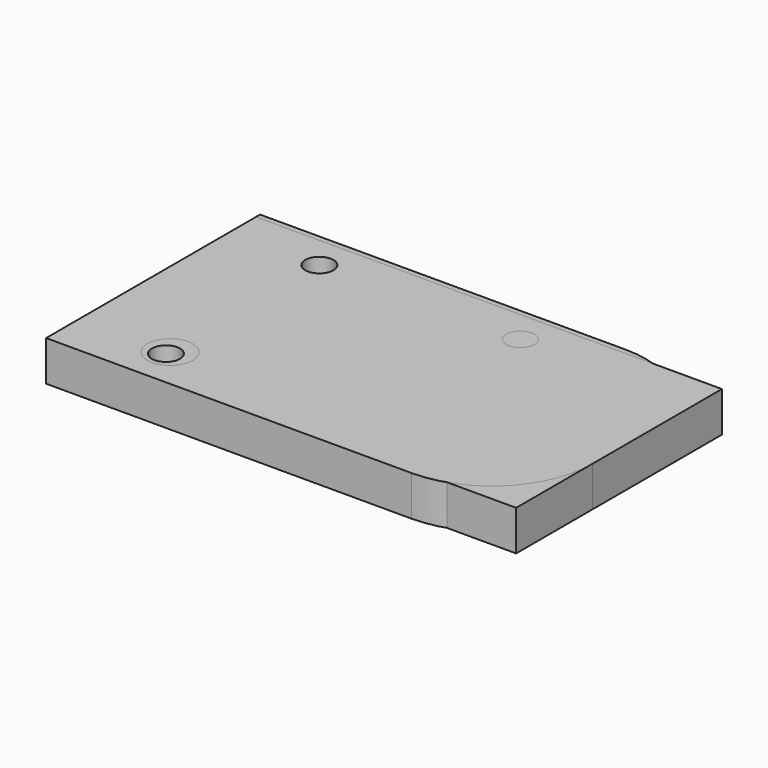
from build123d import *

# Parameters (mm, degrees)
F0_W     = 46.376184
F0_H     = 26.111616
F0_R     = 1.4
F0_R_2   = 2.25
F1_DEPTH = 4
F2_W     = 5
F2_H     = 4.45055
F3_DEPTH = 4
F4_R     = 10


with BuildPart() as f1:
    # F0 (on Top) → F1 (new body)
    with BuildSketch(Plane.XY):
        with Locations((-20.697201, 0.254628)):
            Rectangle(F0_W, F0_H)
        with Locations((-34.971185, -9.544797)):
            Circle(F0_R, mode=Mode.SUBTRACT)
        with Locations((-14.971185, -9.544797)):
            Circle(F0_R, mode=Mode.SUBTRACT)
        with Locations((-34.885293, 9.136044)):
            Circle(F0_R_2, mode=Mode.SUBTRACT)
    extrude(amount=F1_DEPTH)

    # F2 (on face) → F3 (join)
    with BuildSketch(Plane(origin=(0, 0, 0), x_dir=(1, 0, 0), z_dir=(0, 0, -1))):
        with Locations((-34.885293, 1.647318)):
            Rectangle(F2_W, F2_H)
    extrude(amount=F3_DEPTH)

    # F4
    f4_edges = [f1.edges().sort_by_distance(p)[0] for p in [
        (2.490891, 13.310436, 2),
    ]]
    fillet(f4_edges, radius=F4_R)


with BuildPart() as f5_1:
    # F5: instance of F1
    add(f1.part.mirror(Plane.XZ))


solid = Compound([f1.part, f5_1.part])
